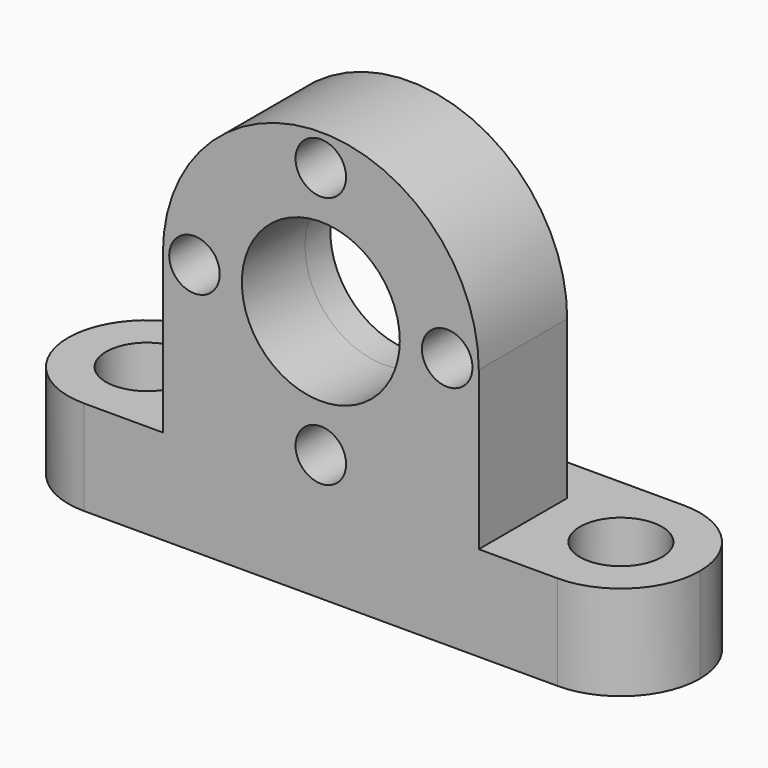
from build123d import *

# Parameters (mm, degrees)
F0_R          = 2.6
F1_DEPTH      = 6
F2_R          = 5
F3_DEPTH      = 5
F3_DEPTH_BACK = 2
F4_R          = 1.6
F5_DEPTH      = 7.001


with BuildPart() as f1:
    # F0 (on Top) → F1 (new body)
    with BuildSketch(Plane.XY):
        with BuildLine():
            Line((-15, -5), (15, -5))
            ThreePointArc((15, -5), (18.535534, -3.535534), (20, 0))
            ThreePointArc((20, 0), (18.535534, 3.535534), (15, 5))
            Line((15, 5), (-15, 5))
            ThreePointArc((-15, 5), (-18.535534, 3.535534), (-20, 0))
            ThreePointArc((-20, 0), (-18.535534, -3.535534), (-15, -5))
        make_face()
        with Locations((-15, 0)):
            Circle(F0_R, mode=Mode.SUBTRACT)
        with Locations((15, 0)):
            Circle(F0_R, mode=Mode.SUBTRACT)
    extrude(amount=F1_DEPTH)

    # F2 (on Front) → F3 (join, two sides)
    with BuildSketch(Plane.XZ) as f3_sk:
        with BuildLine():
            Line((10, 6), (10, 16))
            ThreePointArc((10, 16), (0, 26), (-10, 16))
            Line((-10, 16), (-10, 6))
            Line((-10, 6), (10, 6))
        make_face()
        with Locations((0, 16)):
            Circle(F2_R, mode=Mode.SUBTRACT)
    extrude(amount=F3_DEPTH)
    extrude(f3_sk.sketch, amount=-F3_DEPTH_BACK)

    # F4 (on face) → F5 (cut, through all)
    with BuildSketch(Plane(origin=(0, 2, 0), x_dir=(-1, 0, 0), z_dir=(0, 1, 0))):
        with Locations((0, 24)):
            Circle(F4_R)
        with Locations((8, 16)):
            Circle(F4_R)
        with Locations((0, 8)):
            Circle(F4_R)
        with Locations((-8, 16)):
            Circle(F4_R)
    extrude(amount=-F5_DEPTH, mode=Mode.SUBTRACT)


solid = f1.part
